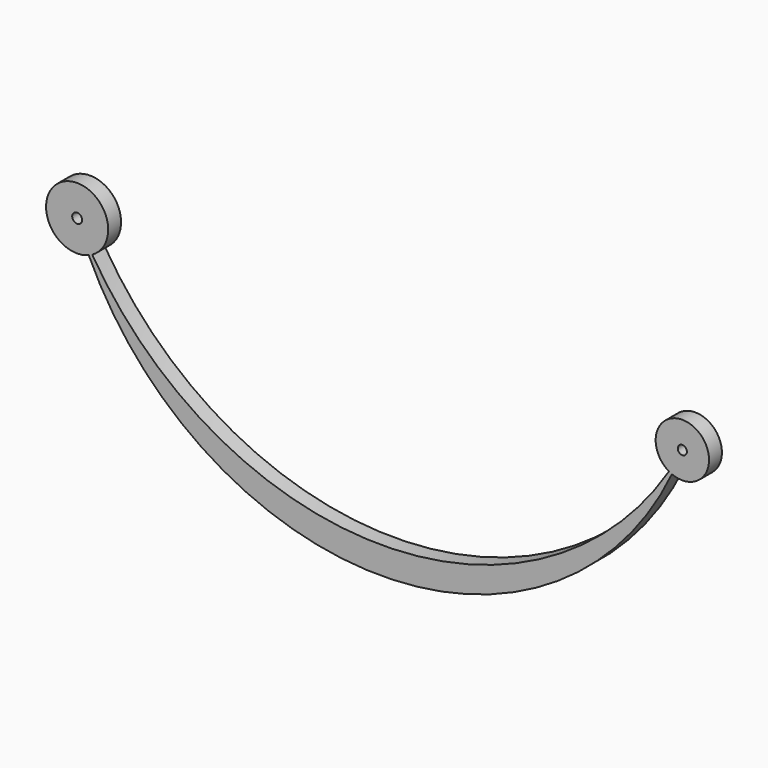
from build123d import *

# Parameters (mm, degrees)
F1_DEPTH = 25.4
F2_R     = 7.7738800252
F2_R_2   = 7.1614283573
F3_DEPTH = 30.734


with BuildPart() as f1:
    # F0 (on Front) → F1 (new body)
    with BuildSketch(Plane.XZ):
        with BuildLine():
            ThreePointArc((-421.1257619628, 95.8928011135), (-402.6768632391, 113.8826363849), (-395.9031238349, 138.744504611))
            ThreePointArc((-395.9031238349, 138.744504611), (-485.5476220529, 166.1537904248), (-426.5593313822, 93.2992327545))
            ThreePointArc((-426.5593313822, 93.2992327545), (-436.2858829635, 115.8003595837), (-444.9156409679, 138.744504611))
            ThreePointArc((-444.9156409679, 138.744504611), (-433.510248449, 117.0468722197), (-421.1257619628, 95.8928011135))
        make_face()
        with BuildLine():
            ThreePointArc((-444.9156409679, 138.744504611), (-436.2858829635, 115.8003595837), (-426.5593313822, 93.2992327545))
            ThreePointArc((-426.5593313822, 93.2992327545), (-423.8026839891, 94.5125039404), (-421.1257619628, 95.8928011135))
            ThreePointArc((-421.1257619628, 95.8928011135), (-433.510248449, 117.0468722197), (-444.9156409679, 138.744504611))
        make_face()
        with BuildLine():
            ThreePointArc((-421.1257619628, 95.8928011135), (-423.8026839891, 94.5125039404), (-426.5593313822, 93.2992327545))
            ThreePointArc((-426.5593313822, 93.2992327545), (32.0425155004, -201.9348464978), (493.7546393554, 88.4110337923))
            ThreePointArc((493.7546393554, 88.4110337923), (491.3963079726, 89.4986078851), (489.109451649, 90.7293931925))
            ThreePointArc((489.109451649, 90.7293931925), (32.5602059948, -159.0664242065), (-421.1257619628, 95.8928011135))
        make_face()
        with BuildLine():
            ThreePointArc((510.2137075671, 127.2021465408), (502.3865607678, 107.635857242), (493.7546393554, 88.4110337923))
            ThreePointArc((493.7546393554, 88.4110337923), (533.4740952009, 92.0651899027), (552.3521858816, 127.2021465408))
            ThreePointArc((552.3521858816, 127.2021465408), (489.161984071, 163.7052463065), (489.109451649, 90.7293931925))
            ThreePointArc((489.109451649, 90.7293931925), (500.0197647143, 108.7585129569), (510.2137075671, 127.2021465408))
        make_face()
        with BuildLine():
            ThreePointArc((489.109451649, 90.7293931925), (491.3963079726, 89.4986078851), (493.7546393554, 88.4110337923))
            ThreePointArc((493.7546393554, 88.4110337923), (502.3865607678, 107.635857242), (510.2137075671, 127.2021465408))
            ThreePointArc((510.2137075671, 127.2021465408), (500.0197647143, 108.7585129569), (489.109451649, 90.7293931925))
        make_face()
    extrude(amount=F1_DEPTH)

    # F2 (on face) → F3 (cut)
    with BuildSketch(Plane.XZ.offset(25.4)):
        with Locations((-444.9156409679, 138.744504611)):
            Circle(F2_R)
        with Locations((510.2137075671, 127.2021465408)):
            Circle(F2_R_2)
    extrude(amount=-F3_DEPTH, mode=Mode.SUBTRACT)


solid = f1.part
